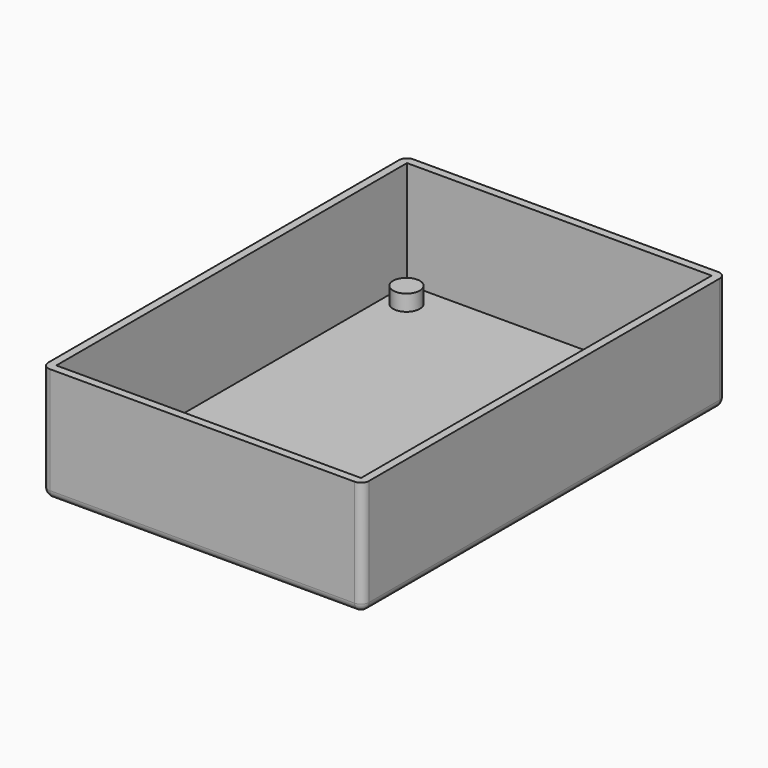
from build123d import *

# Parameters (mm, degrees)
BOX_W        = 57
BOX_H        = 82
BOX_DEPTH    = 20
THICKNESS_T  = 1.5
SKETCH003_R  = 2.5
PAD001_DEPTH = 3


with BuildPart() as part:
    # Box → Box (new body)
    with BuildSketch(Plane.XY):
        with Locations((28.5, 41)):
            Rectangle(BOX_W, BOX_H)
    extrude(amount=BOX_DEPTH)

    # Thickness
    thickness_openings = [part.faces().sort_by_distance(p)[0] for p in [
        (28.5, 41, 20),
    ]]
    offset(amount=THICKNESS_T, openings=thickness_openings)


with BuildPart() as part_1:
    # Thickness placement: moved
    add(part.part.moved(Location((-1.5, 0, 0))))

    # Sketch003 → Pad001 (new body)
    with BuildSketch(Plane(origin=(-1.5, 0, 0), x_dir=(1, 0, 0), z_dir=(0, 0, 1))):
        with Locations((3.53528, 2.636141)):
            Circle(SKETCH003_R)
        with Locations((41.372181, 2.740742)):
            Circle(SKETCH003_R)
        with Locations((3.781813, 77.146011)):
            Circle(SKETCH003_R)
        with Locations((51.846909, 76.723869)):
            Circle(SKETCH003_R)
    extrude(amount=PAD001_DEPTH)


solid = part_1.part
